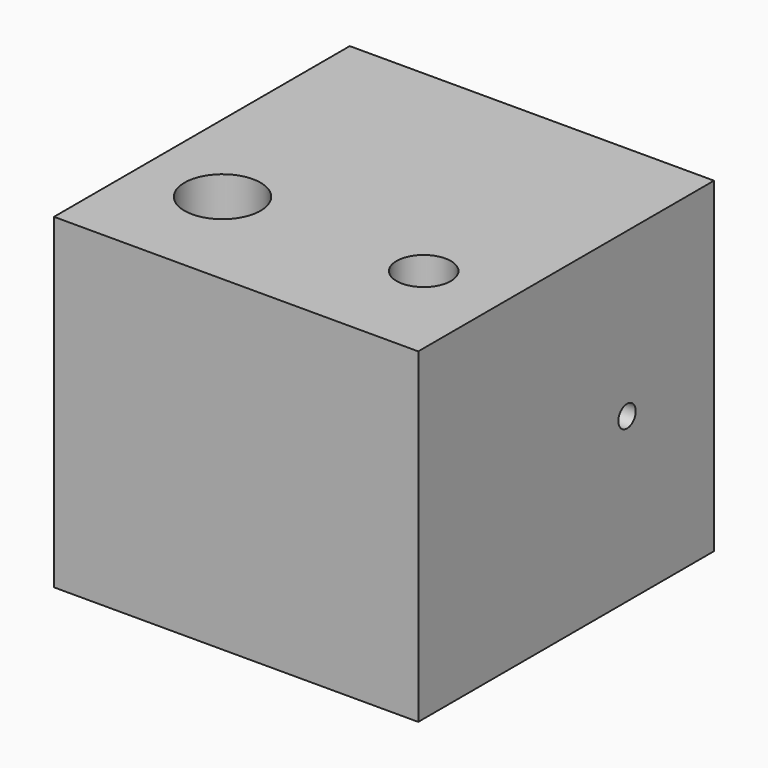
from build123d import *

# Parameters (mm, degrees)
F0_W     = 33.5
F0_H     = 20
F1_DEPTH = 30
F3_D     = 5
F4_D     = 7
F5_W     = 33.5
F5_H     = 14
F6_DEPTH = 30
F8_D     = 2


with BuildPart() as f1:
    # F0 (on Top) → F1 (new body)
    with BuildSketch(Plane.XY):
        Rectangle(F0_W, F0_H)
    extrude(amount=F1_DEPTH)

    # F3 (through all)
    with Locations(Plane.XY.offset(30)):
        with Locations((9.25, 0)):
            Hole(F3_D / 2)

    # F4 (through all)
    with Locations(Plane.XY.offset(30)):
        with Locations((-9.25, 0)):
            Hole(F4_D / 2)

    # F5 (on Top) → F6 (join)
    with BuildSketch(Plane.XY):
        with Locations((0, 17)):
            Rectangle(F5_W, F5_H)
    extrude(amount=F6_DEPTH)

    # F8 (through all)
    with Locations(Plane.YZ.offset(16.75)):
        with Locations((14, 15)):
            Hole(F8_D / 2)


solid = f1.part
